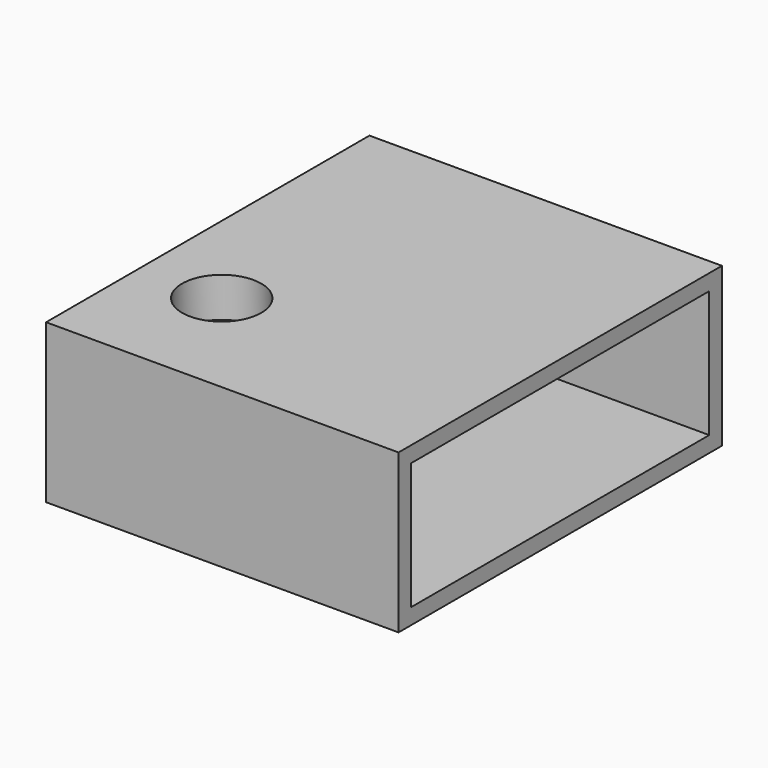
from build123d import *

# Parameters (mm, degrees)
F0_W           = 56.5020628273
F0_H           = 64.7920891643
F1_DEPTH       = 25.4
F3_D           = 6.35
F3_CBORE_D     = 12.7
F3_CBORE_DEPTH = 6.35
F4_T           = -2.54


with BuildPart() as f1:
    # F0 (on Top) → F1 (new body)
    with BuildSketch(Plane.XY):
        with Locations((28.2510314137, 32.3960445821)):
            Rectangle(F0_W, F0_H)
    extrude(amount=F1_DEPTH)

    # F3 (through all)
    with Locations(Plane.XY.offset(25.4)):
        with Locations((13.101497665, 18.814554438)):
            CounterBoreHole(F3_D / 2, F3_CBORE_D / 2, F3_CBORE_DEPTH)

    # F4
    f4_openings = [f1.faces().sort_by_distance(p)[0] for p in [
        (56.502063, 32.396045, 12.7),
    ]]
    offset(amount=F4_T, openings=f4_openings, kind=Kind.INTERSECTION)


solid = f1.part
